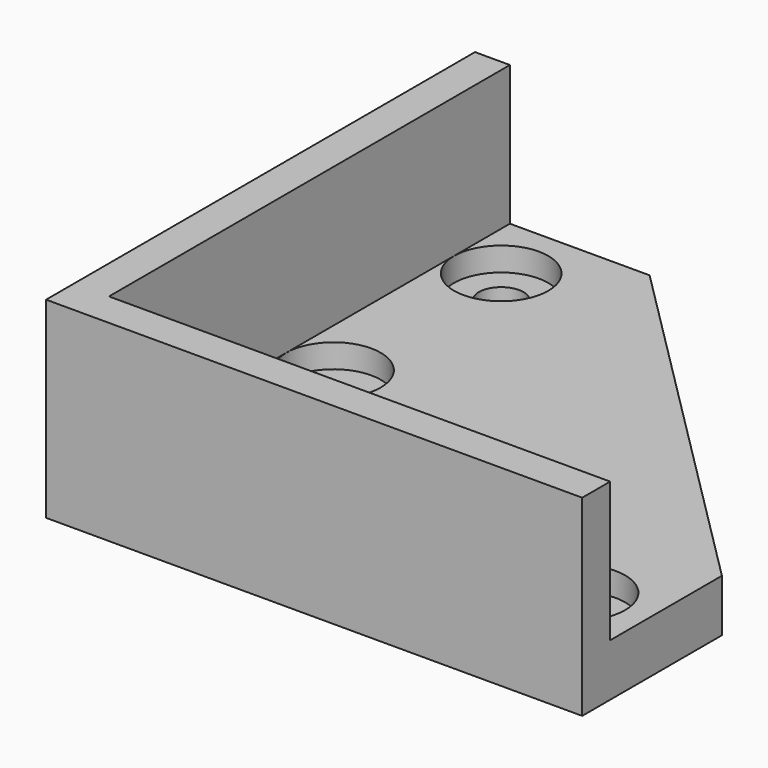
from build123d import *

# Parameters (mm, degrees)
F1_W     = 51.75
F1_H     = 20
F2_DEPTH = 7.5
F3_W     = 5
F3_H     = 71.75
F4_DEPTH = 7.5
F0_R     = 6.75
F5_DEPTH = 3.4
F6_DEPTH = 20
F7_R     = 3.2
F8_DEPTH = 25


with BuildPart() as f2:
    # F1 (on Top) → F2 (new body)
    with BuildSketch(Plane.XY):
        Polygon((13.25, 65), (-6.75, 65), (-6.75, -6.75), (13.25, -6.75), (13.25, 13.25), align=None)
        Polygon((65, 13.25), (13.25, 65), (13.25, 13.25), align=None)
        with Locations((39.125, 3.25)):
            Rectangle(F1_W, F1_H)
    extrude(amount=-F2_DEPTH)

    # F3 (on face) → F4 (join)
    with BuildSketch(Plane.XY):
        with Locations((-9.25, 29.125)):
            Rectangle(F3_W, F3_H)
        Polygon((65, -6.75), (-6.75, -6.75), (-11.75, -6.75), (-11.75, -11.75), (65, -11.75), align=None)
    extrude(amount=-F4_DEPTH)

    # F0 (on Top) → F5 (cut)
    with BuildSketch(Plane.XY):
        with Locations((55, 0)):
            Circle(F0_R)
        with Locations((25, 0)):
            Circle(F0_R)
        with Locations((0, 25)):
            Circle(F0_R)
        with Locations((0, 55)):
            Circle(F0_R)
    extrude(amount=-F5_DEPTH, mode=Mode.SUBTRACT)

    # F3 (on face) → F6 (join)
    with BuildSketch(Plane.XY):
        with Locations((-9.25, 29.125)):
            Rectangle(F3_W, F3_H)
        Polygon((65, -6.75), (-6.75, -6.75), (-11.75, -6.75), (-11.75, -11.75), (65, -11.75), align=None)
    extrude(amount=F6_DEPTH)

    # F7 (on face) → F8 (cut)
    with BuildSketch(Plane.XY):
        with Locations((0, 25)):
            Circle(F7_R)
        with Locations((0, 55)):
            Circle(F7_R)
        with Locations((25, 0)):
            Circle(F7_R)
        with Locations((55, 0)):
            Circle(F7_R)
    extrude(amount=-F8_DEPTH, mode=Mode.SUBTRACT)


solid = f2.part
